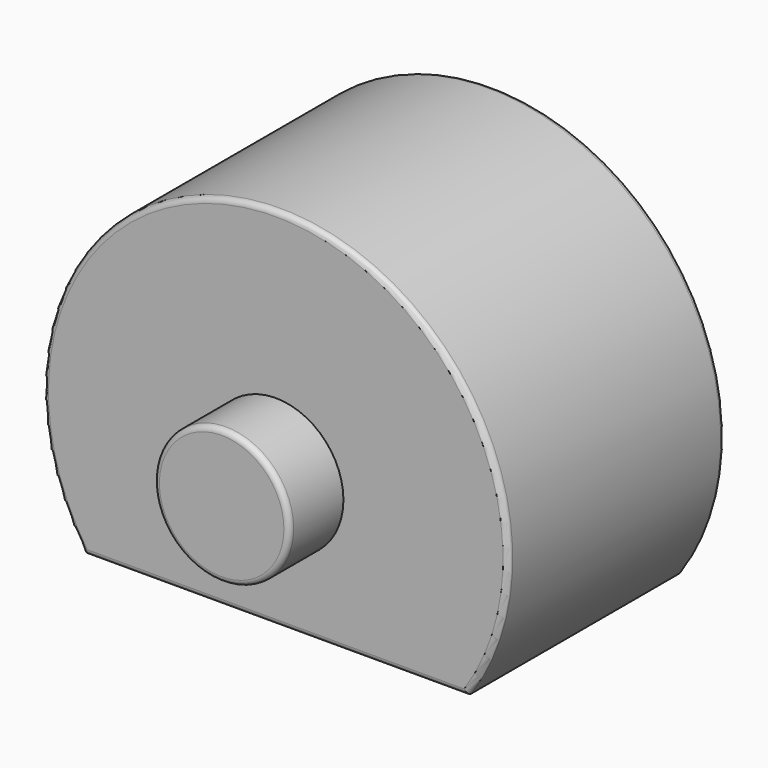
from build123d import *

# Parameters (mm, degrees)
F3_DEPTH = 6.35
F1_R     = 3.175
F4_DEPTH = 9.525
F2_R     = 3.175
F5_DEPTH = 12.7
F6_R     = 0.254


with BuildPart() as f3:
    # F0 (on Front) → F3 (new body, symmetric)
    with BuildSketch(Plane.XZ):
        with BuildLine():
            Line((-8.975765, 0), (8.975765, 0))
            ThreePointArc((8.975765, 0), (0, 17.145), (-8.975765, 0))
        make_face()
    extrude(amount=F3_DEPTH, both=True)

    # F1 (on Front) → F4 (join, symmetric)
    with BuildSketch(Plane.XZ):
        with Locations((0, 6.223)):
            Circle(F1_R)
    extrude(amount=F4_DEPTH, both=True)

    # F2 (on Top) → F5 (cut)
    with BuildSketch(Plane.XY):
        Circle(F2_R)
    extrude(amount=F5_DEPTH, mode=Mode.SUBTRACT)

    # F6
    f6_edges = [f3.edges().sort_by_distance(p)[0] for p in [
        (-3.175, -9.525, 6.223),
        (0, -6.35, 17.145),
        (0, 6.35, 17.145),
        (-3.175, 9.525, 6.223),
        (0, 6.35, 0),
        (0, -6.35, 0),
    ]]
    fillet(f6_edges, radius=F6_R)


solid = f3.part
